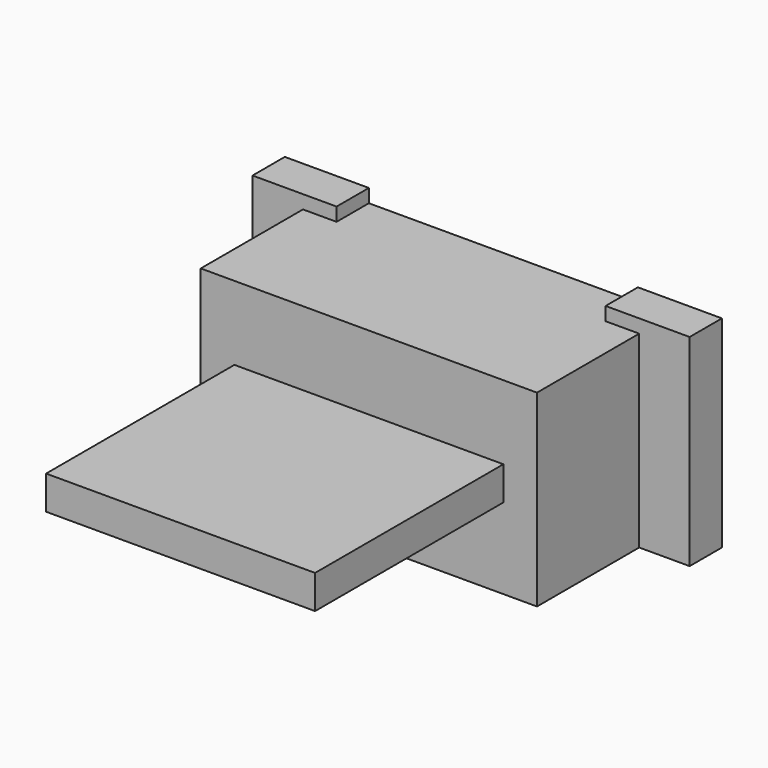
from build123d import *

# Parameters (mm, degrees)
BOX064_W     = 4
BOX064_H     = 0.6
BOX064_DEPTH = 0.2
BOX063_W     = 6.5
BOX063_H     = 0.6
BOX063_DEPTH = 3
BOX066_W     = 4
BOX066_H     = 3.5
BOX066_DEPTH = 0.5
BOX065_W     = 5
BOX065_H     = 2.5
BOX065_DEPTH = 2.8


with BuildPart() as cube037:
    # Box064 → Box064 (new body)
    with BuildSketch(Plane(origin=(-2, -0.6, 2.8), x_dir=(1, 0, 0), z_dir=(0, 0, 1))):
        with Locations((2, 0.3)):
            Rectangle(BOX064_W, BOX064_H)
    extrude(amount=BOX064_DEPTH)


with BuildPart() as cut015:
    # Box063 → Box063 (new body)
    with BuildSketch(Plane(origin=(-3.25, -0.6, 0), x_dir=(1, 0, 0), z_dir=(0, 0, 1))):
        with Locations((3.25, 0.3)):
            Rectangle(BOX063_W, BOX063_H)
    extrude(amount=BOX063_DEPTH)

    # Cut014: cut Cube037
    add(cube037.part, mode=Mode.SUBTRACT)


with BuildPart() as cube039:
    # Box066 → Box066 (new body)
    with BuildSketch(Plane(origin=(-2, -6, 1.2), x_dir=(1, 0, 0), z_dir=(0, 0, 1))):
        with Locations((2, 1.75)):
            Rectangle(BOX066_W, BOX066_H)
    extrude(amount=BOX066_DEPTH)


with BuildPart() as body008:
    # Box065 → Box065 (new body)
    with BuildSketch(Plane(origin=(-2.5, -2.5, 0), x_dir=(1, 0, 0), z_dir=(0, 0, 1))):
        with Locations((2.5, 1.25)):
            Rectangle(BOX065_W, BOX065_H)
    extrude(amount=BOX065_DEPTH)

    # Fusion048: union Cut015, Cube039
    add(cut015.part)
    add(cube039.part)


solid = body008.part
